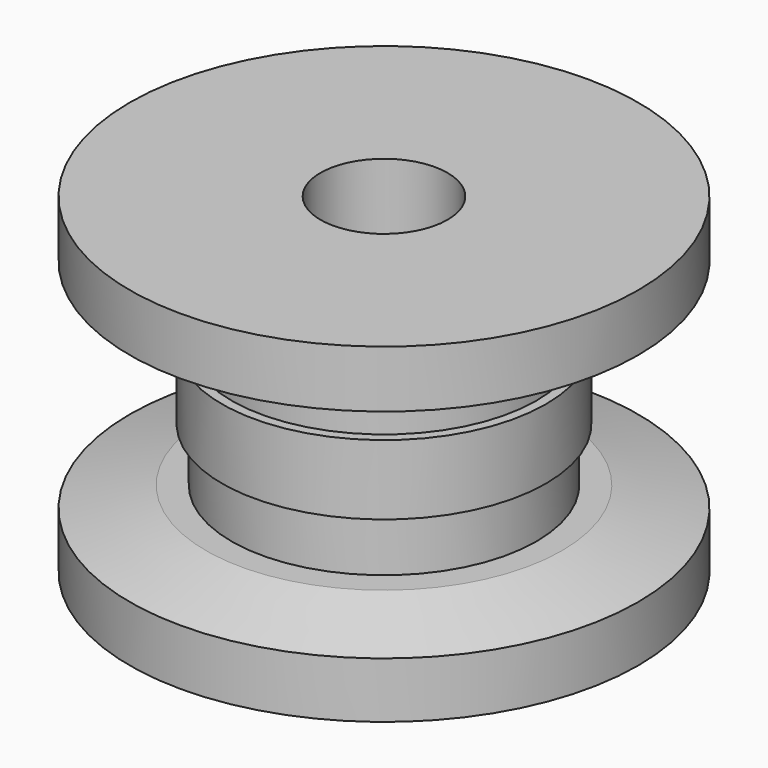
from build123d import *

# Parameters (mm, degrees)
F0_R      = 20
F1_DEPTH  = 6
F2_R      = 12
F3_DEPTH  = 4.25
F4_R      = 12.75
F5_DEPTH  = 5.5
F6_R      = 12
F7_DEPTH  = 4.25
F8_R      = 20
F9_DEPTH  = 6
F10_R     = 5
F11_DEPTH = 26.001
F12_SIZE2 = 1.6
F12_SIZE  = 6
F13_SIZE2 = 6
F13_SIZE  = 1.5


with BuildPart() as f1:
    # F0 (on Top) → F1 (new body)
    with BuildSketch(Plane.XY):
        Circle(F0_R)
    extrude(amount=F1_DEPTH)

    # F2 (on face) → F3 (join)
    with BuildSketch(Plane.XY.offset(6)):
        Circle(F2_R)
    extrude(amount=F3_DEPTH)

    # F4 (on face) → F5 (join)
    with BuildSketch(Plane.XY.offset(10.25)):
        Circle(F4_R)
    extrude(amount=F5_DEPTH)

    # F6 (on face) → F7 (join)
    with BuildSketch(Plane.XY.offset(15.75)):
        Circle(F6_R)
    extrude(amount=F7_DEPTH)

    # F8 (on face) → F9 (join)
    with BuildSketch(Plane.XY.offset(20)):
        Circle(F8_R)
    extrude(amount=F9_DEPTH)

    # F10 (on face) → F11 (cut, through all)
    with BuildSketch(Plane.XY.offset(26)):
        Circle(F10_R)
    extrude(amount=-F11_DEPTH, mode=Mode.SUBTRACT)

    # F12
    f12_edges = [f1.edges().sort_by_distance(p)[0] for p in [
        (-20, 0, 6),
    ]]
    f12_side = f1.faces().sort_by_distance((-19.434315, 0, 6))[0]
    chamfer(f12_edges, length=F12_SIZE, length2=F12_SIZE2, reference=f12_side)

    # F13
    f13_edges = [f1.edges().sort_by_distance(p)[0] for p in [
        (-20, 0, 20),
    ]]
    f13_side = f1.faces().sort_by_distance((-20, 0, 23))[0]
    chamfer(f13_edges, length=F13_SIZE, length2=F13_SIZE2, reference=f13_side)


solid = f1.part
